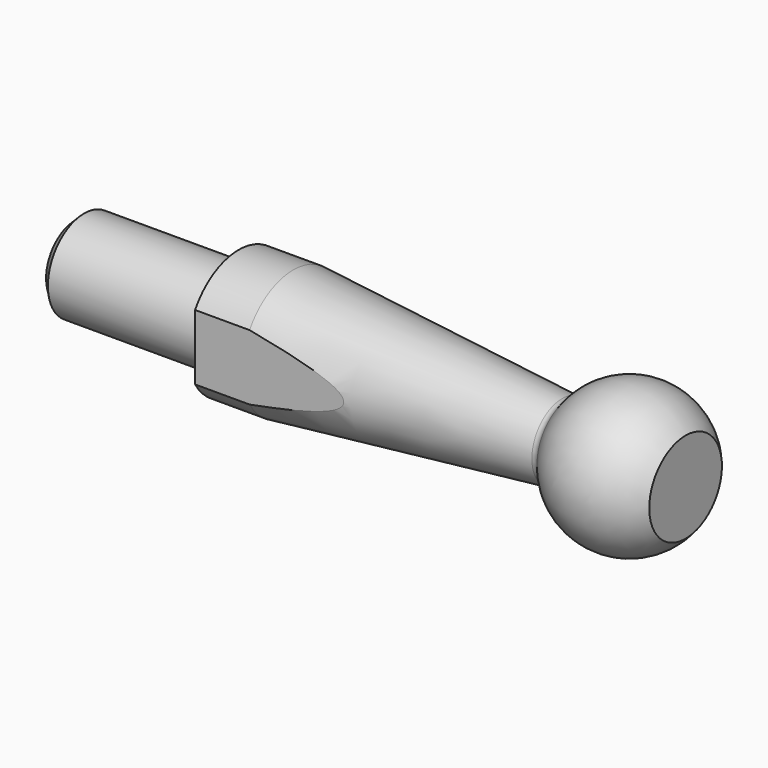
from build123d import *

# Parameters (mm, degrees)
F2_W     = 19.05
F2_H     = 17.984261
F3_DEPTH = 12.7
F4_SIZE  = 1
F5_R     = 1


with BuildPart() as f1:
    # F0 (on Front) → F1 (revolve)
    with BuildSketch(Plane.XZ):
        with BuildLine():
            Line((6.181, 0), (6.181, 4.999774))
            ThreePointArc((6.181, 4.999774), (-0.556813, 7.930477), (-6.819, 4.087021))
            Line((-6.819, 4.087021), (-37, 7))
            Line((-37, 7), (-43, 7))
            Line((-43, 7), (-43, 5))
            Line((-43, 5), (-61, 5))
            Line((-61, 5), (-61, 0))
            Line((-61, 0), (6.181, 0))
        make_face()
    revolve(axis=Axis((-27.4095, 0, 0), (1, 0, 0)))

    # F2 (on Top) → F3 (cut, symmetric)
    with BuildSketch(Plane.XY):
        with Locations((-33.475, 14.992131)):
            Rectangle(F2_W, F2_H)
        with Locations((-33.475, -14.992131)):
            Rectangle(F2_W, F2_H)
    extrude(amount=F3_DEPTH, both=True, mode=Mode.SUBTRACT)

    # F4
    f4_edges = [f1.edges().sort_by_distance(p)[0] for p in [
        (-61, 0, -5),
    ]]
    chamfer(f4_edges, length=F4_SIZE)

    # F5
    f5_edges = [f1.edges().sort_by_distance(p)[0] for p in [
        (-6.819, 0, -4.087021),
    ]]
    fillet(f5_edges, radius=F5_R)


solid = f1.part
